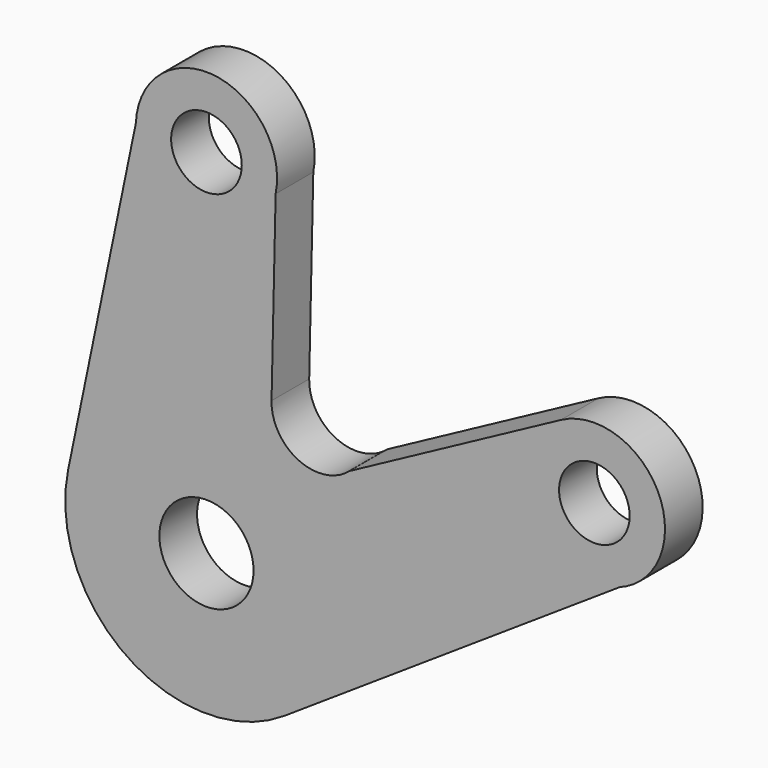
from build123d import *

# Parameters (mm, degrees)
F0_R     = 10
F0_R_2   = 7.5
F1_DEPTH = 10


with BuildPart() as f1:
    # F0 (on Front) → F1 (new body)
    with BuildSketch(Plane.XZ):
        with BuildLine():
            Line((13.822382, 33.022511), (14.694303, 71.987117))
            ThreePointArc((14.694303, 71.987117), (1.80678, 89.890787), (-14.988444, 75.588687))
            Line((-14.988444, 75.588687), (-29.377151, 6.081363))
            ThreePointArc((-29.377151, 6.081363), (-16.807639, -24.849613), (16.579403, -25.002468))
            Line((16.579403, -25.002468), (87.758465, 22.197127))
            Line((87.758465, 22.197127), (93.213844, 25.814647))
            ThreePointArc((93.213844, 25.814647), (94.341494, 45.278379), (75.289093, 49.415346))
            Line((75.289093, 49.415346), (30.384627, 25.255315))
            ThreePointArc((30.384627, 25.255315), (19.573907, 23.744971), (13.822382, 33.022511))
        make_face()
        Circle(F0_R, mode=Mode.SUBTRACT)
        with Locations((0, 75)):
            Circle(F0_R_2, mode=Mode.SUBTRACT)
        with Locations((82.39619, 36.20591)):
            Circle(F0_R_2, mode=Mode.SUBTRACT)
        with BuildLine():
            Line((93.213844, 25.814647), (87.758465, 22.197127))
            ThreePointArc((87.758465, 22.197127), (90.685891, 23.704676), (93.213844, 25.814647))
        make_face()
    extrude(amount=F1_DEPTH)


solid = f1.part
